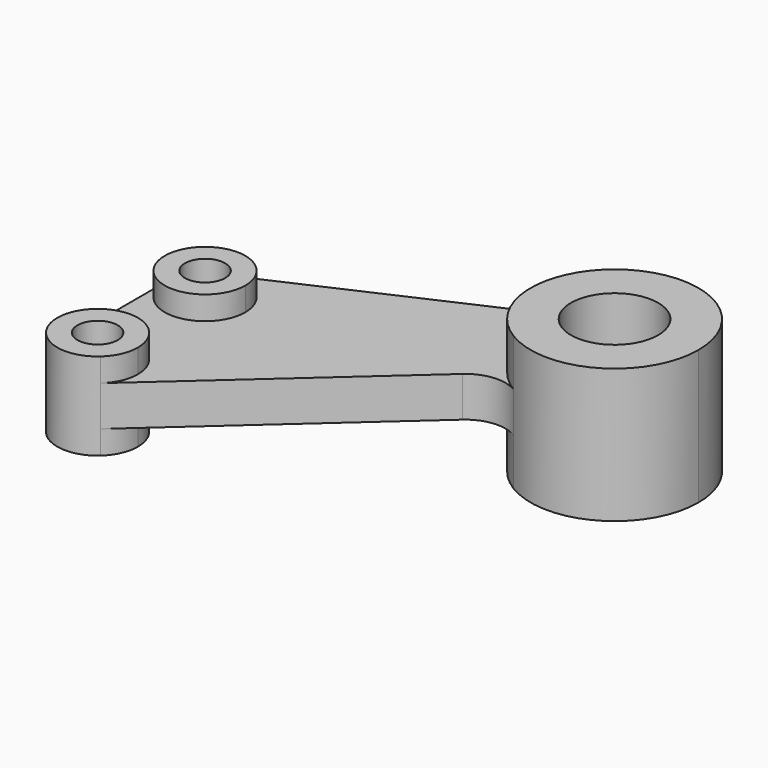
from build123d import *

# Parameters (mm, degrees)
F0_R     = 13.0048
F1_DEPTH = 20.0025
F2_DEPTH = 5.9944
F0_R_2   = 5.9944
F3_DEPTH = 13.0048


with BuildPart() as f1:
    # F0 (on Top) → F1 (new body, symmetric)
    with BuildSketch(Plane.XY):
        with BuildLine():
            ThreePointArc((-12.949346, -21.392276), (12.278025, -21.784516), (25.0063, 0))
            ThreePointArc((25.0063, 0), (13.562501, 21.008894), (-10.294693, 22.788908))
            ThreePointArc((-10.294693, 22.788908), (-24.961282, 1.499814), (-12.949346, -21.392276))
        make_face()
        Circle(F0_R, mode=Mode.SUBTRACT)
    extrude(amount=F1_DEPTH, both=True)

    # F0 (on Top) → F2 (join, symmetric)
    with BuildSketch(Plane.XY):
        with BuildLine():
            ThreePointArc((-12.949346, -21.392276), (-24.961282, 1.499814), (-10.294693, 22.788908))
            Line((-10.294693, 22.788908), (-102.934025, -19.060113))
            ThreePointArc((-102.934025, -19.060113), (-91.484026, -19.914411), (-85.9917, -29.9974))
            ThreePointArc((-85.9917, -29.9974), (-97.9932, -41.9989), (-109.9947, -29.9974))
            Line((-109.9947, -29.9974), (-109.9947, -70.0024))
            ThreePointArc((-109.9947, -70.0024), (-97.9932, -58.0009), (-85.9917, -70.0024))
            ThreePointArc((-85.9917, -70.0024), (-87.036779, -74.90065), (-89.990008, -78.945829))
            Line((-89.990008, -78.945829), (-27.152389, -22.714435))
            ThreePointArc((-27.152389, -22.714435), (-20.268898, -19.711211), (-12.949346, -21.392276))
        make_face()
    extrude(amount=F2_DEPTH, both=True)

    # F0 (on Top) → F3 (join, symmetric)
    with BuildSketch(Plane.XY):
        with BuildLine():
            ThreePointArc((-85.9917, -29.9974), (-91.484026, -19.914411), (-102.934025, -19.060113))
            ThreePointArc((-102.934025, -19.060113), (-108.076189, -23.488226), (-109.9947, -29.9974))
            ThreePointArc((-109.9947, -29.9974), (-97.9932, -41.9989), (-85.9917, -29.9974))
        make_face()
        with Locations((-97.9932, -29.9974)):
            Circle(F0_R_2, mode=Mode.SUBTRACT)
        with BuildLine():
            ThreePointArc((-109.9947, -70.0024), (-102.89145, -80.958821), (-89.990008, -78.945829))
            ThreePointArc((-89.990008, -78.945829), (-87.036779, -74.90065), (-85.9917, -70.0024))
            ThreePointArc((-85.9917, -70.0024), (-97.9932, -58.0009), (-109.9947, -70.0024))
        make_face()
        with Locations((-97.9932, -70.0024)):
            Circle(F0_R_2, mode=Mode.SUBTRACT)
    extrude(amount=F3_DEPTH, both=True)


solid = f1.part
